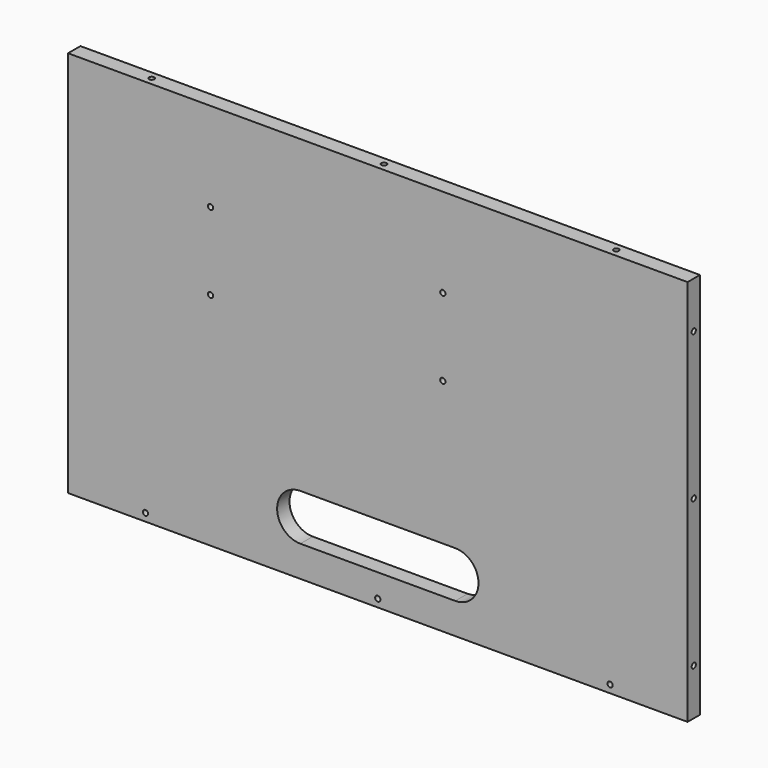
from build123d import *

# Parameters (mm, degrees)
SKETCH021_R               = 1.7
PAD019_DEPTH              = 20
SKETCH020_R               = 1.7
PAD018_DEPTH              = 20
SKETCH019_R               = 1.7
PAD017_DEPTH              = 20
CYLINDER038_R             = 1.7
CYLINDER038_DEPTH         = 61
CYLINDER038_PITCH_ANGLE   = 90
CYLINDER037_R             = 1.7
CYLINDER037_DEPTH         = 61
CYLINDER037_PITCH_ANGLE   = 90
CYLINDER036_R             = 1.7
CYLINDER036_DEPTH         = 61
CYLINDER036_PITCH_ANGLE   = 90
BOX001_W                  = 50
BOX001_H                  = 215
BOX001_DEPTH              = 115
CYLINDER039_R             = 1.7
CYLINDER039_DEPTH         = 61
CYLINDER039_PITCH_ANGLE   = 90
FUSION011_PLACEMENT_ANGLE = 90
SKETCH003_W               = 400
SKETCH003_H               = 250
SKETCH003_R               = 1.7
PAD003_DEPTH              = 10


with BuildPart() as pad019:
    # Sketch021 → Pad019 (new body)
    with BuildSketch(Plane(origin=(0, -75, 230), x_dir=(1, 0, 0), z_dir=(0, 0, 1))):
        with Locations((-150, 240)):
            Circle(SKETCH021_R)
        with Locations((150, 240)):
            Circle(SKETCH021_R)
        with Locations((0, 240)):
            Circle(SKETCH021_R)
    extrude(amount=PAD019_DEPTH)


with BuildPart() as pad018:
    # Sketch020 → Pad018 (new body)
    with BuildSketch(Plane.YZ.offset(-210)):
        with Locations((165, 210)):
            Circle(SKETCH020_R)
        with Locations((165, 115)):
            Circle(SKETCH020_R)
        with Locations((165, 20)):
            Circle(SKETCH020_R)
    extrude(amount=PAD018_DEPTH)


with BuildPart() as fusion013:
    # Sketch019 → Pad017 (new body)
    with BuildSketch(Plane.YZ.offset(210)):
        with Locations((165, 210)):
            Circle(SKETCH019_R)
        with Locations((165, 115)):
            Circle(SKETCH019_R)
        with Locations((165, 20)):
            Circle(SKETCH019_R)
    extrude(amount=-PAD017_DEPTH)

    # Fusion012: union Pad018
    add(pad018.part)

    # Fusion013: union Pad019
    add(pad019.part)


with BuildPart() as cylinder038:
    # Cylinder038 → Cylinder038 (new body)
    with BuildSketch(Plane.XY):
        Circle(CYLINDER038_R)
    extrude(amount=CYLINDER038_DEPTH)


with BuildPart() as cylinder038_1:
    # Cylinder038 pitch: moved
    add(cylinder038.part.rotate(Axis((0, 0, 0), (0, 1, 0)), CYLINDER038_PITCH_ANGLE))


with BuildPart() as cylinder038_2:
    # Cylinder038 placement: moved
    add(cylinder038_1.part.moved(Location((150, 112.5, 147.5))))


with BuildPart() as cylinder037:
    # Cylinder037 → Cylinder037 (new body)
    with BuildSketch(Plane.XY):
        Circle(CYLINDER037_R)
    extrude(amount=CYLINDER037_DEPTH)


with BuildPart() as cylinder037_1:
    # Cylinder037 pitch: moved
    add(cylinder037.part.rotate(Axis((0, 0, 0), (0, 1, 0)), CYLINDER037_PITCH_ANGLE))


with BuildPart() as cylinder037_2:
    # Cylinder037 placement: moved
    add(cylinder037_1.part.moved(Location((150, -37.5, 197.5))))


with BuildPart() as cylinder036:
    # Cylinder036 → Cylinder036 (new body)
    with BuildSketch(Plane.XY):
        Circle(CYLINDER036_R)
    extrude(amount=CYLINDER036_DEPTH)


with BuildPart() as cylinder036_1:
    # Cylinder036 pitch: moved
    add(cylinder036.part.rotate(Axis((0, 0, 0), (0, 1, 0)), CYLINDER036_PITCH_ANGLE))


with BuildPart() as cylinder036_2:
    # Cylinder036 placement: moved
    add(cylinder036_1.part.moved(Location((150, -37.5, 147.5))))


with BuildPart() as box001:
    # Box001 → Box001 (new body)
    with BuildSketch(Plane(origin=(150, -70, 115), x_dir=(1, 0, 0), z_dir=(0, 0, 1))):
        with Locations((25, 107.5)):
            Rectangle(BOX001_W, BOX001_H)
    extrude(amount=BOX001_DEPTH)


with BuildPart() as fusion011:
    # Cylinder039 → Cylinder039 (new body)
    with BuildSketch(Plane.XY):
        Circle(CYLINDER039_R)
    extrude(amount=CYLINDER039_DEPTH)


with BuildPart() as fusion011_1:
    # Cylinder039 pitch: moved
    add(fusion011.part.rotate(Axis((0, 0, 0), (0, 1, 0)), CYLINDER039_PITCH_ANGLE))


with BuildPart() as fusion011_2:
    # Cylinder039 placement: moved
    add(fusion011_1.part.moved(Location((150, 112.5, 197.5))))

    # Fusion011: union Cylinder038, Cylinder037, Cylinder036, Box001
    add(cylinder038_2.part)
    add(cylinder037_2.part)
    add(cylinder036_2.part)
    add(box001.part)


with BuildPart() as fusion011_3:
    # Fusion011 placement: moved
    add(fusion011_2.part.moved(Location((4.5, -41, -15))).rotate(Axis((4.5, -41, -15), (0, 0, 1)), FUSION011_PLACEMENT_ANGLE))


with BuildPart() as cut015:
    # Sketch003 → Pad003 (new body)
    with BuildSketch(Plane.XZ.offset(-170)):
        with Locations((0, 115)):
            Rectangle(SKETCH003_W, SKETCH003_H)
        with Locations((0, -5)):
            Circle(SKETCH003_R, mode=Mode.SUBTRACT)
        with Locations((-150, -5)):
            Circle(SKETCH003_R, mode=Mode.SUBTRACT)
        with Locations((150, -5)):
            Circle(SKETCH003_R, mode=Mode.SUBTRACT)
        with BuildLine():
            ThreePointArc((-50, 40), (-65, 25), (-50, 10))
            Line((-50, 10), (50, 10))
            ThreePointArc((50, 10), (65, 25), (50, 40))
            Line((-50, 40), (50, 40))
        make_face(mode=Mode.SUBTRACT)
    extrude(amount=PAD003_DEPTH)

    # Cut014: cut Fusion011
    add(fusion011_3.part, mode=Mode.SUBTRACT)

    # Cut015: cut Fusion013
    add(fusion013.part, mode=Mode.SUBTRACT)


solid = cut015.part
